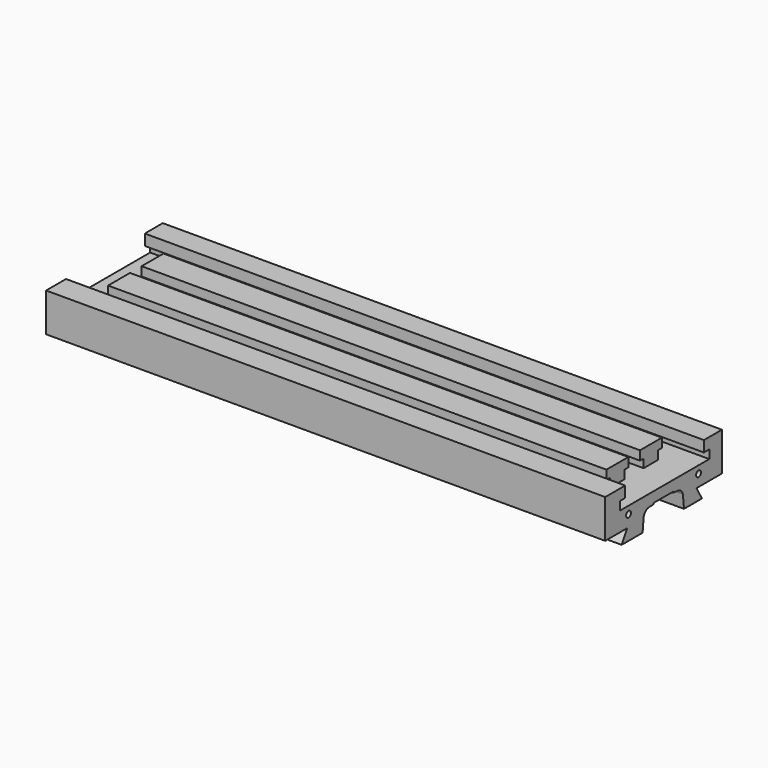
from build123d import *

# Parameters (mm, degrees)
SKETCH_R     = 2.5
PAD_DEPTH    = 460
SKETCH001_W  = 70
SKETCH001_H  = 25
POCKET_DEPTH = 14.5


with BuildPart() as part:
    # Sketch → Pad (new body)
    with BuildSketch(Plane.YZ):
        with BuildLine():
            Line((-43.1, 0), (-37.459288, 9.77))
            Line((-37.459288, 9.77), (-60, 9.77))
            Line((-60, 9.77), (-60, 41.5))
            Line((-60, 41.5), (-39.5, 41.5))
            Line((-39.5, 41.5), (-39.5, 32.5))
            Line((-39.5, 32.5), (-45, 32.5))
            Line((-45, 32.5), (-45, 25.5))
            Line((-45, 25.5), (-23.75, 25.5))
            Line((-23.75, 25.5), (-23.75, 32.5))
            Line((-23.75, 32.5), (-27.5, 32.5))
            Line((-27.5, 32.5), (-27.5, 40))
            Line((-27.5, 40), (-5, 40))
            Line((-5, 40), (-5, 32.5))
            Line((-5, 32.5), (-8.75, 32.5))
            Line((-8.75, 32.5), (-8.75, 25.5))
            Line((-8.75, 25.5), (10.75, 25.5))
            Line((10.75, 25.5), (10.75, 32.5))
            Line((7, 32.5), (10.75, 32.5))
            Line((7, 32.5), (7, 40))
            Line((7, 40), (29.5, 40))
            Line((29.5, 40), (29.5, 32.5))
            Line((29.5, 32.5), (25.75, 32.5))
            Line((25.75, 32.5), (25.75, 25.5))
            Line((25.75, 25.5), (47, 25.5))
            Line((47, 25.5), (47, 32.5))
            Line((47, 32.5), (41.5, 32.5))
            Line((41.5, 32.5), (41.5, 41.5))
            Line((41.5, 41.5), (60, 41.5))
            Line((60, 41.5), (60, 9.77))
            Line((60, 9.77), (33.859288, 9.77))
            Line((33.859288, 9.77), (39.5, 0))
            Line((39.5, 0), (21, 0))
            Line((19.843853, 11), (21, 0))
            ThreePointArc((19.843853, 11), (17.886929, 14.396937), (14.25, 15.860317))
            Line((10.25, 16), (14.25, 15.860317))
            Line((10.25, 16), (10.25, 17))
            Line((10.25, 17), (-10.25, 17))
            Line((-10.25, 17), (-10.25, 16))
            Line((-14.25, 15.860317), (-10.25, 16))
            ThreePointArc((-14.25, 15.860317), (-18.255593, 14.588138), (-20.443853, 11))
            Line((-21.6, 0), (-20.443853, 11))
            Line((-21.6, 0), (-43.1, 0))
        make_face()
        with Locations((36, 19.3)):
            Circle(SKETCH_R, mode=Mode.SUBTRACT)
        with Locations((-36, 19.3)):
            Circle(SKETCH_R, mode=Mode.SUBTRACT)
    extrude(amount=PAD_DEPTH)

    # Sketch001 → Pocket (cut)
    with BuildSketch(Plane(origin=(0, 0, 40), x_dir=(0, -1, 0), z_dir=(0, 0, 1))):
        with Locations((0, 12.5)):
            Rectangle(SKETCH001_W, SKETCH001_H)
        with Locations((0, 447.5)):
            Rectangle(SKETCH001_W, SKETCH001_H)
    extrude(amount=-POCKET_DEPTH, mode=Mode.SUBTRACT)


solid = part.part
